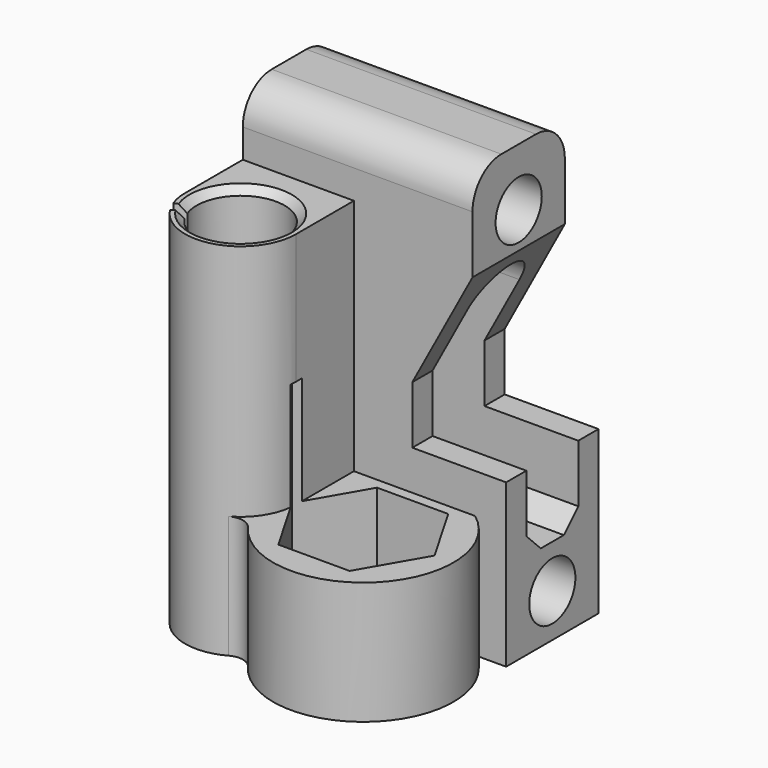
from build123d import *

# Parameters (mm, degrees)
BOX_W           = 36.5
BOX_H           = 16
BOX_DEPTH       = 59
SKETCH_R        = 4
POCKET_DEPTH    = 36.501
POCKET001_DEPTH = 16.001
BOX001_W        = 2
BOX001_H        = 10
BOX001_DEPTH    = 21
PAD_DEPTH       = 3
PAD001_DEPTH    = 3
CHAMFER_SIZE    = 2.999
CHAMFER001_SIZE = 2.999
SKETCH005_R     = 1.5
POCKET002_DEPTH = 39.501
SKETCH006_W     = 10
SKETCH006_H     = 4.5
PAD002_DEPTH    = 2
POCKET003_DEPTH = 2
PAD003_DEPTH    = 50
CHAMFER002_SIZE = 1
CHAMFER003_SIZE = 1
SKETCH010_R     = 6
PAD004_DEPTH    = 17
POCKET004_DEPTH = 15
FILLET_R        = 5
FILLET001_R     = 5


with BuildPart() as pocket001:
    # Box → Box (new body)
    with BuildSketch(Plane(origin=(-18, -8, -28.5), x_dir=(1, 0, 0), z_dir=(0, 0, 1))):
        with Locations((18.25, 8)):
            Rectangle(BOX_W, BOX_H)
    extrude(amount=BOX_DEPTH)

    # Sketch → Pocket (cut, through all)
    with BuildSketch(Plane(origin=(18.5, -8, -28.5), x_dir=(0, 1, 0), z_dir=(1, 0, 0))):
        with Locations((8, 51)):
            Circle(SKETCH_R)
        with Locations((8, 6)):
            Circle(SKETCH_R)
        with BuildLine():
            ThreePointArc((12.5, 39.499979), (8.00001, 44), (3.5, 39.5))
            Line((3.5, 39.5), (3.5, 14.5))
            Line((3.5, 14.5), (6, 12))
            Line((6, 12), (10, 12))
            Line((10, 12), (12.5, 14.5))
            Line((12.5, 14.5), (12.5, 39.499979))
        make_face()
    extrude(amount=-POCKET_DEPTH, mode=Mode.SUBTRACT)

    # Sketch001 → Pocket001 (cut, through all)
    with BuildSketch(Plane(origin=(-18, 8, -28.5), x_dir=(-1, 0, 0), z_dir=(0, 1, 0))):
        Polygon((-36.5, 59), (-36.5, 22.5), (-23.5, 22.5), (-23.5, 30.5), (-31.837266, 46), (-31.837266, 59), align=None)
    extrude(amount=-POCKET001_DEPTH, mode=Mode.SUBTRACT)


with BuildPart() as fillet001:
    # Box001 → Box001 (new body)
    with BuildSketch(Plane(origin=(-18, -5, -17.5), x_dir=(1, 0, 0), z_dir=(0, 0, 1))):
        with Locations((1, 5)):
            Rectangle(BOX001_W, BOX001_H)
    extrude(amount=BOX001_DEPTH)

    # Fusion: union Pocket001
    add(pocket001.part)

    # Sketch003 → Pad (new body)
    with BuildSketch(Plane(origin=(-18, 0, 0), x_dir=(0, -1, 0), z_dir=(-1, 0, 0))):
        with BuildLine():
            Line((-2.5, 0), (-2.5, -4))
            Line((-2.5, -4), (2.5, -4))
            Line((2.5, -4), (2.5, 0))
            ThreePointArc((2.5, 0), (0, 2.5), (-2.5, 0))
        make_face()
    extrude(amount=PAD_DEPTH)

    # Sketch004 → Pad001 (new body)
    with BuildSketch(Plane.YZ.offset(-16)):
        with BuildLine():
            ThreePointArc((2.5, 0), (0, 2.5), (-2.5, 0))
            Line((-2.5, 0), (-2.5, -4))
            Line((-2.5, -4), (2.5, -4))
            Line((2.5, -4), (2.5, 0))
        make_face()
    extrude(amount=PAD001_DEPTH)

    # Chamfer
    chamfer_edges = [fillet001.edges().sort_by_distance(p)[0] for p in [
        (-18, 0, -4),
    ]]
    chamfer(chamfer_edges, length=CHAMFER_SIZE)

    # Chamfer001
    chamfer001_edges = [fillet001.edges().sort_by_distance(p)[0] for p in [
        (-16, 0, -4),
    ]]
    chamfer(chamfer001_edges, length=CHAMFER001_SIZE)

    # Sketch005 → Pocket002 (cut, through all)
    with BuildSketch(Plane(origin=(-21, 0, 0), x_dir=(0, -1, 0), z_dir=(-1, 0, 0))):
        Circle(SKETCH005_R)
    extrude(amount=-POCKET002_DEPTH, mode=Mode.SUBTRACT)

    # Sketch006 → Pad002 (new body)
    with BuildSketch(Plane(origin=(-18, 0, 0), x_dir=(0, -1, 0), z_dir=(-1, 0, 0))):
        with Locations((0, 20.25)):
            Rectangle(SKETCH006_W, SKETCH006_H)
        with Locations((0, -24.55)):
            Rectangle(SKETCH006_W, SKETCH006_H)
    extrude(amount=-PAD002_DEPTH)

    # Sketch007 → Pocket003 (cut)
    with BuildSketch(Plane(origin=(-18, 0, 0), x_dir=(0, -1, 0), z_dir=(-1, 0, 0))):
        with BuildLine():
            Line((-1.527433, 26.519571), (0, 27.1))
            Line((0, 27.1), (1.527433, 26.519571))
            ThreePointArc((4.3, 22.5), (3.53963, 24.94152), (1.527433, 26.519571))
            Line((-4.3, 22.5), (4.3, 22.5))
            ThreePointArc((-1.527433, 26.519571), (-3.53963, 24.94152), (-4.3, 22.5))
        make_face()
        with BuildLine():
            Line((-1.527433, -18.480429), (0, -17.9))
            Line((0, -17.9), (1.527433, -18.480429))
            ThreePointArc((4.295346, -22.3), (3.481877, -19.976802), (1.527433, -18.480429))
            Line((-4.295346, -22.3), (4.295346, -22.3))
            ThreePointArc((-1.527433, -18.480429), (-3.481877, -19.976802), (-4.295346, -22.3))
        make_face()
    extrude(amount=-POCKET003_DEPTH, mode=Mode.SUBTRACT)

    # Sketch009 → Pad003 (new body)
    with BuildSketch(Plane(origin=(0, 0, -28.5), x_dir=(1, 0, 0), z_dir=(0, 0, -1))):
        with BuildLine():
            ThreePointArc((-17.535633, 20.633555), (-17.883023, 19.337073), (-18, 17.999963))
            Line((-18, 17.999963), (-18, 8))
            ThreePointArc((-18, 8), (-10.3, 6.568948), (-2.6, 8))
            Line((-2.6, 17.999963), (-2.6, 8))
            ThreePointArc((-2.6, 17.999963), (-8.162477, 25.397364), (-16.813266, 22.106991))
            Line((-16.813266, 22.106991), (-15.45986, 21.25359))
            ThreePointArc((-16.032125, 20.086323), (-4.822824, 15.314755), (-15.45986, 21.25359))
            Line((-17.535633, 20.633555), (-16.032125, 20.086323))
        make_face()
    extrude(amount=-PAD003_DEPTH)

    # Chamfer002
    chamfer002_edges = [fillet001.edges().sort_by_distance(p)[0] for p in [
        (-4.822824, -15.314755, 21.5),
    ]]
    chamfer(chamfer002_edges, length=CHAMFER002_SIZE)

    # Chamfer003
    chamfer003_edges = [fillet001.edges().sort_by_distance(p)[0] for p in [
        (-4.822824, -15.314755, -28.5),
    ]]
    chamfer(chamfer003_edges, length=CHAMFER003_SIZE)

    # Sketch010 → Pad004 (new body)
    with BuildSketch(Plane(origin=(0, 0, -28.5), x_dir=(1, 0, 0), z_dir=(0, 0, -1))):
        with BuildLine():
            ThreePointArc((14.2, 8), (15.510359, 26.867219), (-3.34804, 25.435515))
            ThreePointArc((-6.569019, 24.73571), (-4.826868, 24.479615), (-3.34804, 25.435515))
            ThreePointArc((-2.6, 17.999963), (-3.666042, 21.909041), (-6.569019, 24.73571))
            Line((-2.6, 17.999963), (-2.6, 8))
            Line((-2.6, 8), (14.2, 8))
        make_face()
        with Locations((6.7, 18)):
            Circle(SKETCH010_R, mode=Mode.SUBTRACT)
    extrude(amount=-PAD004_DEPTH)

    # Sketch011 → Pocket004 (cut, symmetric)
    with BuildSketch(Plane.XY.offset(-11.5)):
        Polygon((11.636345, -26.55), (16.57269, -18), (11.636345, -9.45), (1.763655, -9.45), (-3.17269, -18), (1.763655, -26.55), align=None)
    extrude(amount=POCKET004_DEPTH, both=True, mode=Mode.SUBTRACT)

    # Fillet
    fillet_edges = [fillet001.edges().sort_by_distance(p)[0] for p in [
        (-2.081367, 8, 30.5),
    ]]
    fillet(fillet_edges, radius=FILLET_R)

    # Fillet001
    fillet001_edges = [fillet001.edges().sort_by_distance(p)[0] for p in [
        (-2.081367, -8, 30.5),
    ]]
    fillet(fillet001_edges, radius=FILLET001_R)


solid = fillet001.part
